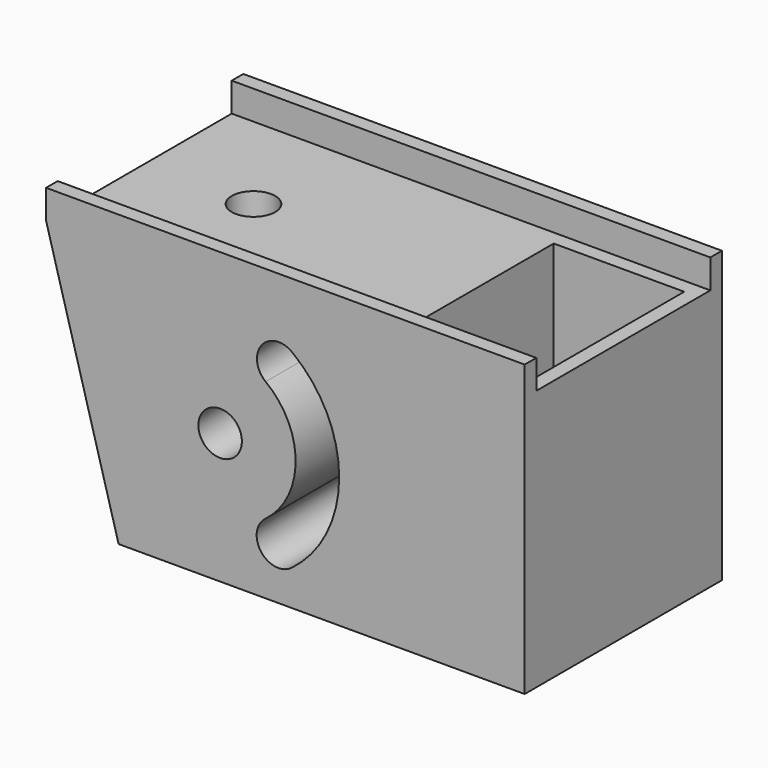
from build123d import *

# Parameters (mm, degrees)
F0_W     = 33
F0_H     = 1
F0_H_2   = 15
F0_R     = 1.5
F0_W_2   = 9
F0_H_3   = 13
F1_DEPTH = 18
F3_DEPTH = 17.001
F4_R     = 1.5
F5_DEPTH = 17.001
F6_R     = 3
F7_DEPTH = 4.5
F8_DEPTH = 1
F9_DEPTH = 1


with BuildPart() as f1:
    # F0 (on Top) → F1 (new body)
    with BuildSketch(Plane.XY):
        with Locations((16.5, 0.5)):
            Rectangle(F0_W, F0_H)
        with Locations((16.5, 8.5)):
            Rectangle(F0_W, F0_H_2)
        with Locations((7.5, 8.5)):
            Circle(F0_R, mode=Mode.SUBTRACT)
        with Locations((27.5, 8.5)):
            Rectangle(F0_W_2, F0_H_3, mode=Mode.SUBTRACT)
        with Locations((16.5, 16.5)):
            Rectangle(F0_W, F0_H)
    extrude(amount=-F1_DEPTH)

    # F2 (on face) → F3 (cut, through all)
    with BuildSketch(Plane.XZ):
        Polygon((5, -18), (0, 0), (0, -18), align=None)
    extrude(amount=-F3_DEPTH, mode=Mode.SUBTRACT)

    # F4 (on face) → F5 (cut, through all)
    with BuildSketch(Plane.XZ):
        with Locations((12, -9)):
            Circle(F4_R)
        with BuildLine():
            ThreePointArc((16.9193976722, -15.5707030324), (20.2081866768, -9.0168308246), (16.9463025453, -2.4495265112))
            ThreePointArc((16.9463025453, -2.4495265112), (14.8453357329, -2.7426791223), (15.138488344, -4.8436459346))
            ThreePointArc((15.138488344, -4.8436459346), (17.2081929835, -9.0106793603), (15.1214168791, -13.1691899537))
            ThreePointArc((15.1214168791, -13.1691899537), (14.8196507362, -15.2689368896), (16.9193976722, -15.5707030324))
        make_face()
    extrude(amount=-F5_DEPTH, mode=Mode.SUBTRACT)

    # F6 (on face) → F7 (cut)
    with BuildSketch(Plane(origin=(0, 0, -18), x_dir=(1, 0, 0), z_dir=(0, 0, -1))):
        with Locations((7.5, -8.5)):
            Circle(F6_R)
    extrude(amount=-F7_DEPTH, mode=Mode.SUBTRACT)

    # F0 (on Top) → F8 (join)
    with BuildSketch(Plane.XY):
        with Locations((16.5, 16.5)):
            Rectangle(F0_W, F0_H)
        with Locations((16.5, 0.5)):
            Rectangle(F0_W, F0_H)
    extrude(amount=F8_DEPTH)

    # F9 (add): faces of the model
    f9_faces = [f1.faces().sort_by_distance(p)[0] for p in [
        (16.5, 16.5, 1),
        (16.5, 0.5, 1),
    ]]
    extrude(f9_faces, amount=F9_DEPTH)


solid = f1.part
